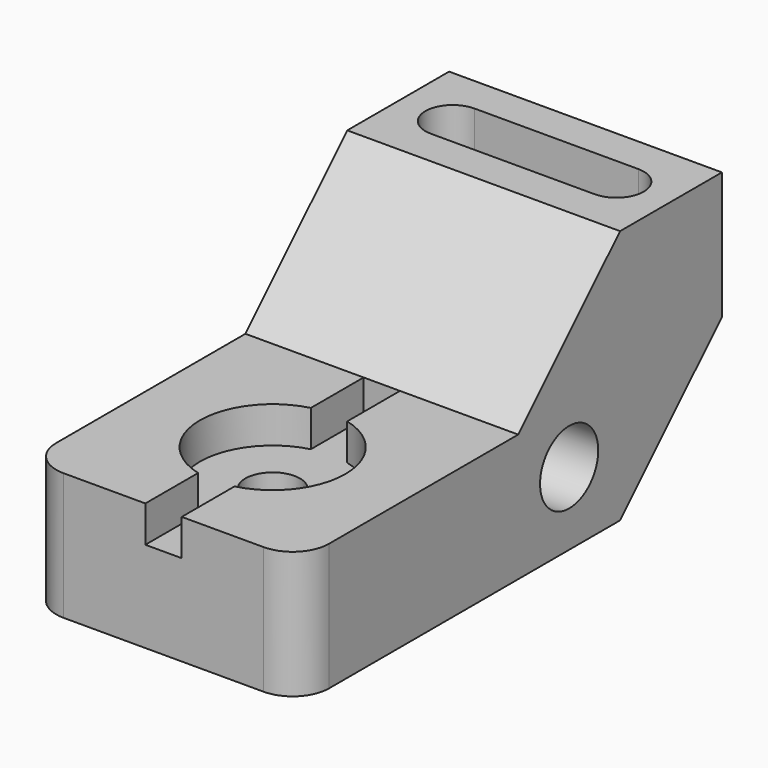
from build123d import *

# Parameters (mm, degrees)
F1_DEPTH       = 76.2
F2_R           = 10.16
F3_DEPTH       = 76.201
F4_R           = 10.16
F6_DEPTH       = 27.94
F9_D           = 15.24
F9_CBORE_D     = 40.64
F9_CBORE_DEPTH = 10.16
F7_W           = 10.16
F7_H           = 76.2
F10_DEPTH      = 10.16


with BuildPart() as f1:
    # F0 (on Right) → F1 (new body)
    with BuildSketch(Plane.YZ):
        Polygon((0, 35.56), (0, 0), (111.76, 0), (147.32, 35.56), (147.32, 71.12), (111.76, 71.12), (76.2, 35.56), align=None)
    extrude(amount=F1_DEPTH)

    # F2 (on face) → F3 (cut, through all)
    with BuildSketch(Plane.YZ.offset(76.2)):
        with Locations((93.98, 20.32)):
            Circle(F2_R)
    extrude(amount=-F3_DEPTH, mode=Mode.SUBTRACT)

    # F4
    f4_edges = [f1.edges().sort_by_distance(p)[0] for p in [
        (76.2, 0, 17.78),
        (0, 0, 17.78),
    ]]
    fillet(f4_edges, radius=F4_R)

    # F5 (on face) → F6 (cut)
    with BuildSketch(Plane.XY.offset(71.12)):
        with BuildLine():
            Line((60.96, 137.16), (15.24, 137.16))
            ThreePointArc((15.24, 137.16), (7.62, 129.54), (15.24, 121.92))
            Line((15.24, 121.92), (60.96, 121.92))
            ThreePointArc((60.96, 121.92), (68.58, 129.54), (60.96, 137.16))
        make_face()
    extrude(amount=-F6_DEPTH, mode=Mode.SUBTRACT)

    # F9 (through all)
    with Locations(Plane.XY.offset(35.56)):
        with Locations((38.1, 38.1)):
            CounterBoreHole(F9_D / 2, F9_CBORE_D / 2, F9_CBORE_DEPTH)

    # F7 (on face) → F10 (cut)
    with BuildSketch(Plane.XY.offset(35.56)):
        with Locations((38.1, 38.1)):
            Rectangle(F7_W, F7_H)
    extrude(amount=-F10_DEPTH, mode=Mode.SUBTRACT)


solid = f1.part
